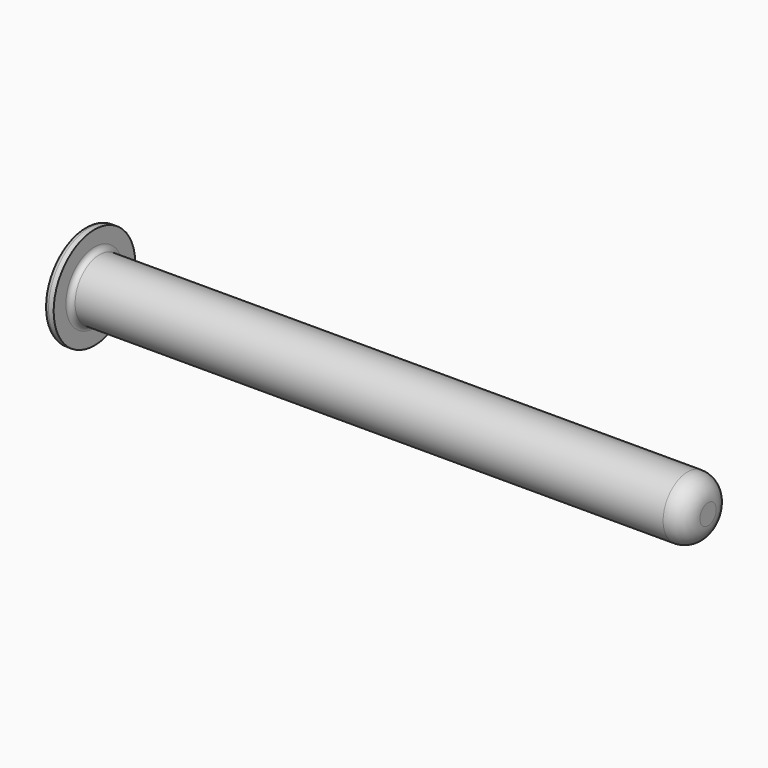
from build123d import *

# Parameters (mm, degrees)
F0_W     = 152.620156
F0_H     = 7.62
F2_R     = 5.08
F3_R     = 12.7
F4_DEPTH = 2.54
F5_R     = 1.27


with BuildPart() as f1:
    # F0 (on Top) → F1 (revolve)
    with BuildSketch(Plane.XY):
        with Locations((-20.329764, 3.81)):
            Rectangle(F0_W, F0_H)
    revolve(axis=Axis((-20.329764, 0, 0), (1, 0, 0)))

    # F2
    f2_edges = [f1.edges().sort_by_distance(p)[0] for p in [
        (55.980314, -7.62, 0),
    ]]
    fillet(f2_edges, radius=F2_R)

    # F3 (on face) → F4 (join)
    with BuildSketch(Plane(origin=(-96.639842, 0, 0), x_dir=(0, -1, 0), z_dir=(-1, 0, 0))):
        Circle(F3_R)
    extrude(amount=F4_DEPTH)

    # F5
    f5_edges = [f1.edges().sort_by_distance(p)[0] for p in [
        (-99.179842, 12.7, 0),
        (-96.639842, -7.62, 0),
    ]]
    fillet(f5_edges, radius=F5_R)


solid = f1.part
